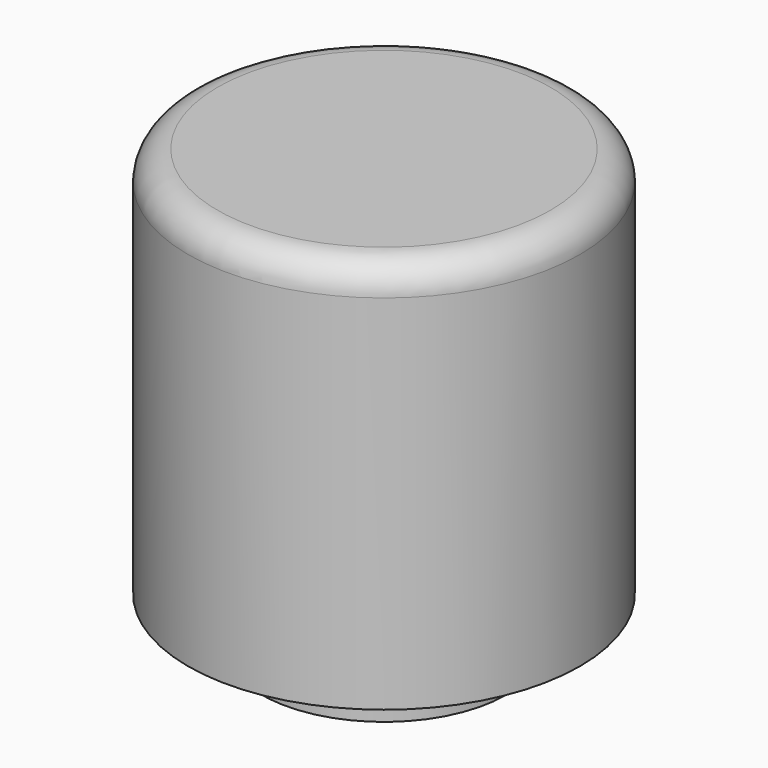
from build123d import *

# Parameters (mm, degrees)
F0_R     = 4
F1_DEPTH = 8
F2_R     = 0.6
F3_R     = 3.5
F4_DEPTH = 7
F5_R     = 2.5
F5_R_2   = 1.25
F6_DEPTH = 8


with BuildPart() as f1:
    # F0 (on Top) → F1 (new body)
    with BuildSketch(Plane.XY):
        Circle(F0_R)
    extrude(amount=F1_DEPTH)

    # F2
    f2_edges = [f1.edges().sort_by_distance(p)[0] for p in [
        (-4, 0, 8),
    ]]
    fillet(f2_edges, radius=F2_R)

    # F3 (on face) → F4 (cut)
    with BuildSketch(Plane(origin=(0, 0, 0), x_dir=(1, 0, 0), z_dir=(0, 0, -1))):
        Circle(F3_R)
    extrude(amount=-F4_DEPTH, mode=Mode.SUBTRACT)

    # F5 (on face) → F6 (join)
    with BuildSketch(Plane(origin=(0, 0, 7), x_dir=(1, 0, 0), z_dir=(0, 0, -1))):
        Circle(F5_R)
        Circle(F5_R_2, mode=Mode.SUBTRACT)
    extrude(amount=F6_DEPTH)


solid = f1.part
